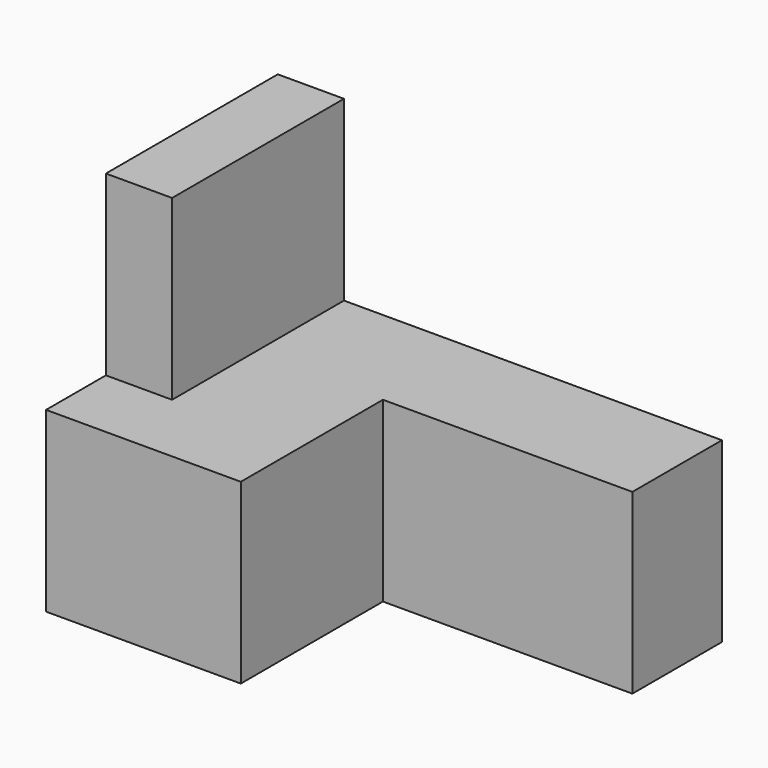
from build123d import *

# Parameters (mm, degrees)
F0_W     = 63.5
F0_H     = 25.4
F1_DEPTH = 41.402
F3_W     = 35.660636
F3_H     = 25.4
F4_DEPTH = 25.4
F5_W     = 9.46481
F5_H     = 30.714739
F6_DEPTH = 25.4


with BuildPart() as f1:
    # F0 (on Front) → F1 (new body)
    with BuildSketch(Plane.XZ):
        with Locations((-31.75, 12.7)):
            Rectangle(F0_W, F0_H)
    extrude(amount=F1_DEPTH)

    # F3 (on face) → F4 (cut)
    with BuildSketch(Plane.XZ.offset(41.402)):
        with Locations((-17.830318, 12.7)):
            Rectangle(F3_W, F3_H)
    extrude(amount=-F4_DEPTH, mode=Mode.SUBTRACT)

    # F5 (on face) → F6 (join)
    with BuildSketch(Plane.XY.offset(25.4)):
        with Locations((-58.767595, -15.357369)):
            Rectangle(F5_W, F5_H)
    extrude(amount=F6_DEPTH)


solid = f1.part
